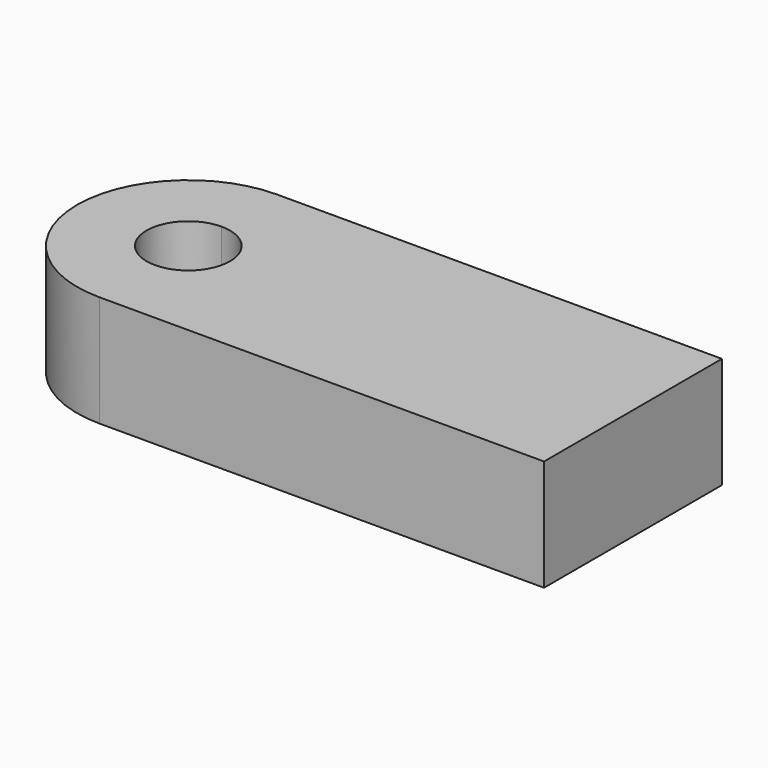
from build123d import *

# Parameters (mm, degrees)
F1_DEPTH = 25.4


with BuildPart() as f1:
    # F0 (on Top) → F1 (new body)
    with BuildSketch(Plane.XY):
        with BuildLine():
            Line((62.971446, 32.868891), (-38.628554, 32.868891))
            Line((-38.628554, 32.868891), (-38.628554, 16.993891))
            ThreePointArc((-38.628554, 16.993891), (-31.893362, 14.204083), (-29.103554, 7.468891))
            ThreePointArc((-29.103554, 7.468891), (-31.893362, 0.733699), (-38.628554, -2.056109))
            Line((-38.628554, -2.056109), (-38.628554, -17.931109))
            Line((-38.628554, -17.931109), (62.971446, -17.931109))
            Line((62.971446, -17.931109), (62.971446, 32.868891))
        make_face()
        with BuildLine():
            Line((-38.628554, 16.993891), (-38.628554, 32.868891))
            ThreePointArc((-38.628554, 32.868891), (-64.028554, 7.468891), (-38.628554, -17.931109))
            Line((-38.628554, -17.931109), (-38.628554, -2.056109))
            ThreePointArc((-38.628554, -2.056109), (-48.153554, 7.468891), (-38.628554, 16.993891))
        make_face()
    extrude(amount=F1_DEPTH)


solid = f1.part
